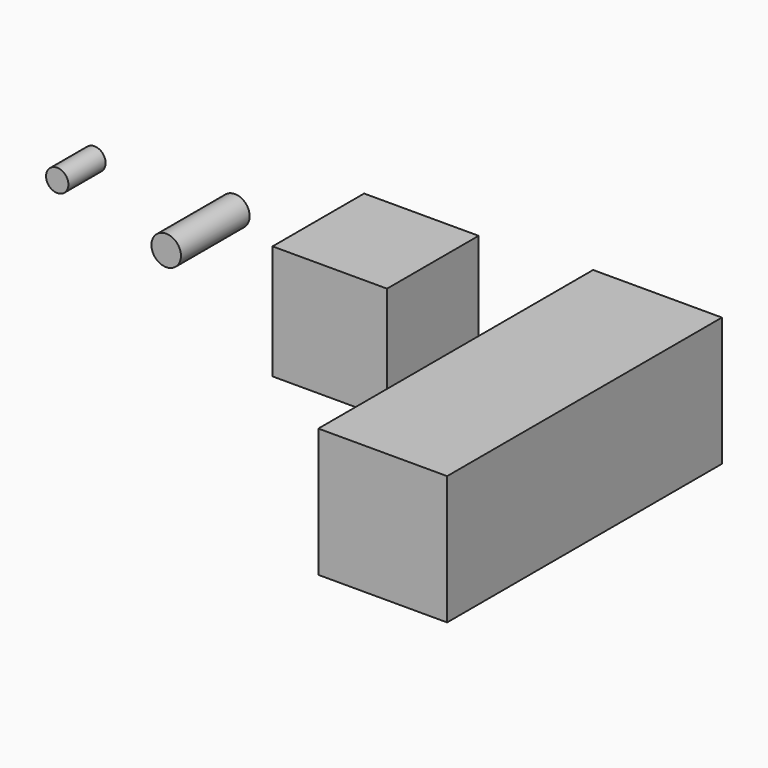
from build123d import *

# Parameters (mm, degrees)
F0_R     = 52.3875
F1_DEPTH = 304.8
F2_R     = 39.6875
F3_DEPTH = 165.1
F4_W     = 406.4
F4_H     = 406.4
F4_W_2   = 457.2
F4_H_2   = 457.2
F5_DEPTH = 406.4
F6_W     = 457.2
F6_H     = 457.2
F7_DEPTH = 812.8


with BuildPart() as f1:
    # F0 (on Front) → F1 (new body)
    with BuildSketch(Plane.XZ):
        Circle(F0_R)
    extrude(amount=F1_DEPTH)


with BuildPart() as f3:
    # F2 (on Front) → F3 (new body)
    with BuildSketch(Plane.XZ):
        with Locations((-498.475, 0)):
            Circle(F2_R)
    extrude(amount=F3_DEPTH)


with BuildPart() as f5:
    # F4 (on Front) → F5 (new body)
    with BuildSketch(Plane.XZ):
        with Locations((661.9875, 0)):
            Rectangle(F4_W, F4_H)
        with Locations((1500.1875, 0)):
            Rectangle(F4_W_2, F4_H_2)
    extrude(amount=F5_DEPTH)

    # F6 (on face) → F7 (join)
    with BuildSketch(Plane.XZ.offset(406.4)):
        with Locations((1500.1875, 0)):
            Rectangle(F6_W, F6_H)
    extrude(amount=F7_DEPTH)


solid = Compound([f1.part, f3.part, f5.part])
